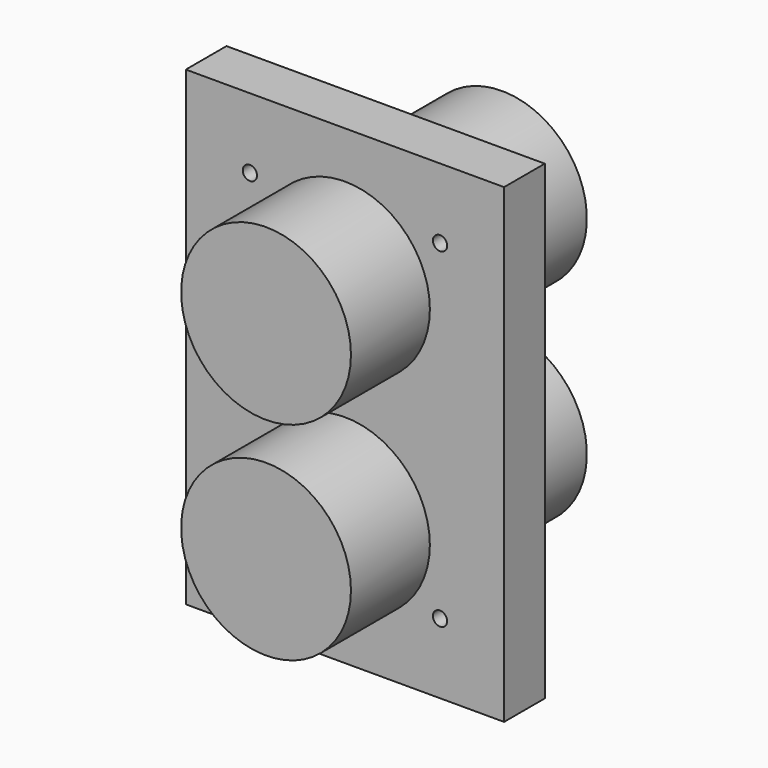
from build123d import *

# Parameters (mm, degrees)
F0_W     = 79.502
F0_H     = 117.602
F1_DEPTH = 12.7
F2_R     = 1.778
F3_DEPTH = 12.701
F4_R     = 21.209
F5_DEPTH = 36.322
F6_R     = 21.209
F7_DEPTH = 24.638


with BuildPart() as f1:
    # F0 (on Front) → F1 (new body)
    with BuildSketch(Plane.XZ):
        Rectangle(F0_W, F0_H)
    extrude(amount=F1_DEPTH)

    # F2 (on face) → F3 (cut, through all)
    with BuildSketch(Plane.XZ.offset(12.7)):
        with Locations((-23.749, 41.275)):
            Circle(F2_R)
        with Locations((23.749, 41.275)):
            Circle(F2_R)
        with Locations((-23.749, -41.275)):
            Circle(F2_R)
        with Locations((23.749, -41.275)):
            Circle(F2_R)
    extrude(amount=-F3_DEPTH, mode=Mode.SUBTRACT)

    # F4 (on face) → F5 (join)
    with BuildSketch(Plane(origin=(0, 0, 0), x_dir=(-1, 0, 0), z_dir=(0, 1, 0))):
        with Locations((0, 25.908)):
            Circle(F4_R)
        with Locations((0, -25.908)):
            Circle(F4_R)
    extrude(amount=F5_DEPTH)

    # F6 (on face) → F7 (join)
    with BuildSketch(Plane.XZ.offset(12.7)):
        with Locations((0, 25.908)):
            Circle(F6_R)
        with Locations((0, -25.908)):
            Circle(F6_R)
    extrude(amount=F7_DEPTH)


solid = f1.part
